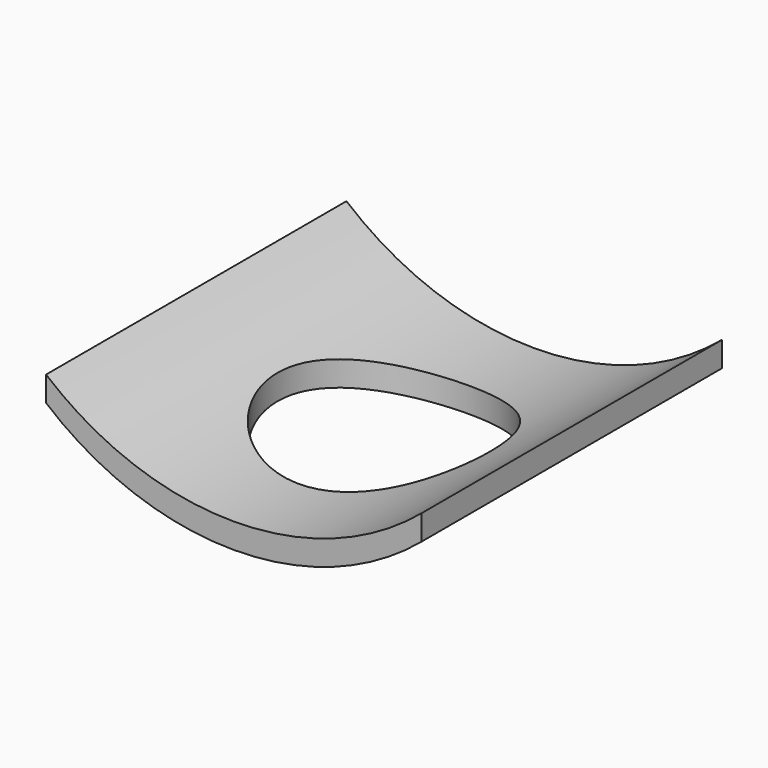
from build123d import *

# Parameters (mm, degrees)
PAD_DEPTH    = 225
SKETCH001_R  = 127.5
POCKET_DEPTH = 111.905868


with BuildPart() as part:
    # Sketch → Pad (new body, symmetric)
    with BuildSketch(Plane.XZ):
        with BuildLine():
            ThreePointArc((-225, 111.904868), (0, 30), (225, 111.904868))
            Line((225, 111.904868), (225, 81.904868))
            ThreePointArc((-225, 81.904868), (0, 0), (225, 81.904868))
            Line((-225, 111.904868), (-225, 81.904868))
        make_face()
    extrude(amount=PAD_DEPTH, both=True)

    # Sketch001 → Pocket (cut, through all)
    with BuildSketch(Plane.XY):
        Circle(SKETCH001_R)
    extrude(amount=POCKET_DEPTH, mode=Mode.SUBTRACT)


solid = part.part
